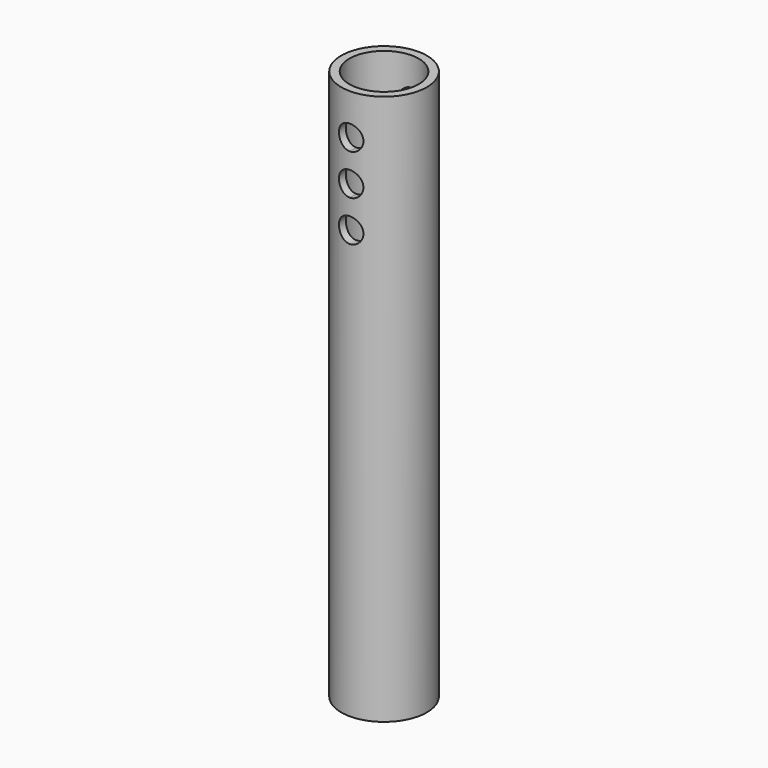
from build123d import *

# Parameters (mm, degrees)
F0_R     = 10.5
F0_R_2   = 9.7
F0_R_3   = 9.5
F0_R_4   = 8.5
F2_DEPTH = 115
F3_DEPTH = 20
F4_DEPTH = 12.5


with BuildPart() as f2:
    # F0 (on Top) → F2 (new body)
    with BuildSketch(Plane.XY):
        Circle(F0_R)
        Circle(F0_R_2, mode=Mode.SUBTRACT)
        Circle(F0_R_2)
        Circle(F0_R_3, mode=Mode.SUBTRACT)
        Circle(F0_R_3)
        Circle(F0_R_4, mode=Mode.SUBTRACT)
    extrude(amount=F2_DEPTH)

    # F0 (on Top) → F3 (join)
    with BuildSketch(Plane.XY):
        Circle(F0_R)
        Circle(F0_R_2, mode=Mode.SUBTRACT)
    extrude(amount=-F3_DEPTH)

    # F1 (on Front) → F4 (cut, symmetric)
    with BuildSketch(Plane.XZ):
        with BuildLine():
            Line((-0.0001868698, 87.999952428), (-0.0001868698, 81.999952428))
            ThreePointArc((-0.0001868698, 81.999952428), (2.1211334738, 82.8786320845), (2.9998131302, 84.999952428))
            ThreePointArc((2.9998131302, 84.999952428), (2.1211334738, 87.1212727716), (-0.0001868698, 87.999952428))
        make_face()
        with BuildLine():
            ThreePointArc((-0.0001868698, 87.999952428), (-3.0001868698, 84.999952428), (-0.0001868698, 81.999952428))
            Line((-0.0001868698, 81.999952428), (-0.0001868698, 87.999952428))
        make_face()
        with BuildLine():
            ThreePointArc((-0.0001868698, 97.999952428), (-3.0001868698, 94.999952428), (-0.0001868698, 91.999952428))
            Line((-0.0001868698, 91.999952428), (-0.0001868698, 97.999952428))
        make_face()
        with BuildLine():
            Line((-0.0001868698, 97.999952428), (-0.0001868698, 91.999952428))
            ThreePointArc((-0.0001868698, 91.999952428), (2.1211334738, 92.8786320845), (2.9998131302, 94.999952428))
            ThreePointArc((2.9998131302, 94.999952428), (2.1211334738, 97.1212727716), (-0.0001868698, 97.999952428))
        make_face()
        with BuildLine():
            ThreePointArc((2.9998131302, 104.999952428), (2.1211334738, 107.1212727716), (-0.0001868698, 107.999952428))
            Line((-0.0001868698, 107.999952428), (-0.0001868698, 101.999952428))
            ThreePointArc((-0.0001868698, 101.999952428), (2.1211334738, 102.8786320845), (2.9998131302, 104.999952428))
        make_face()
        with BuildLine():
            Line((-0.0001868698, 101.999952428), (-0.0001868698, 107.999952428))
            ThreePointArc((-0.0001868698, 107.999952428), (-3.0001868698, 104.999952428), (-0.0001868698, 101.999952428))
        make_face()
    extrude(amount=F4_DEPTH, both=True, mode=Mode.SUBTRACT)


solid = f2.part
